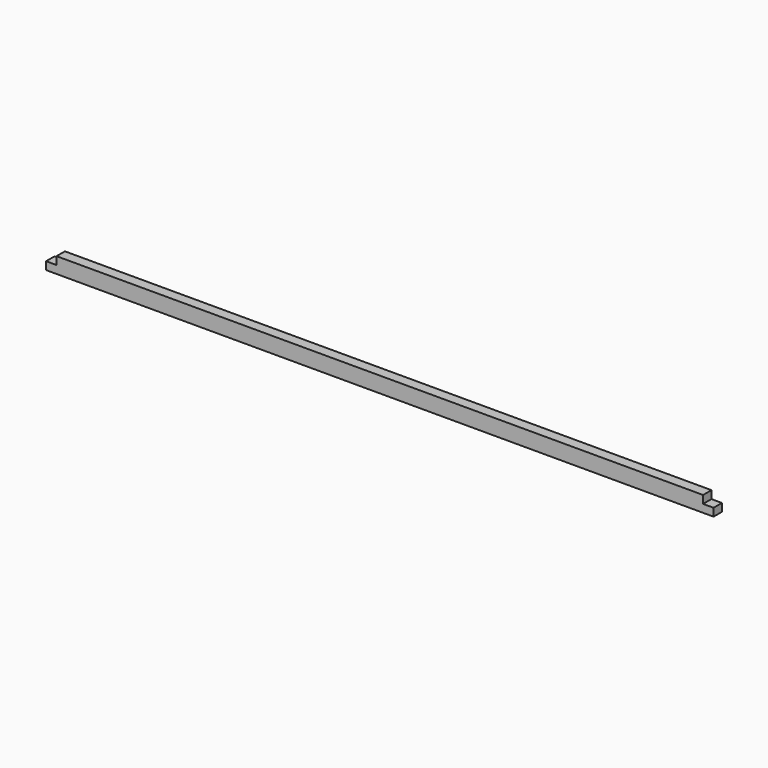
from build123d import *

# Parameters (mm, degrees)
F0_W     = 80
F0_H     = 120
F1_DEPTH = 5100
F2_W     = 80
F2_H     = 60
F3_DEPTH = 80


with BuildPart() as f1:
    # F0 (on Right) → F1 (new body)
    with BuildSketch(Plane.YZ):
        Rectangle(F0_W, F0_H)
    extrude(amount=F1_DEPTH)

    # F2 (on face) → F3 (cut, through all)
    with BuildSketch(Plane.XZ.offset(40)):
        with Locations((5060, 30)):
            Rectangle(F2_W, F2_H)
        with Locations((40, 30)):
            Rectangle(F2_W, F2_H)
    extrude(amount=-F3_DEPTH, mode=Mode.SUBTRACT)


solid = f1.part
